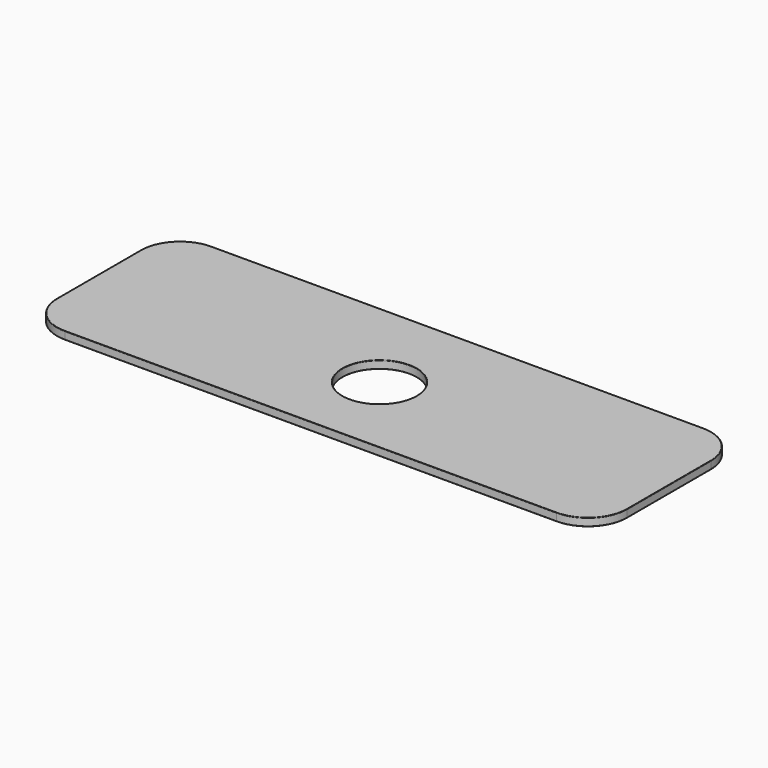
from build123d import *

# Parameters (mm, degrees)
F0_W     = 146
F0_H     = 46.9
F1_DEPTH = 2
F2_R     = 10
F3_R     = 9.5
F4_DEPTH = 25
F5_R     = 0.1


with BuildPart() as f1:
    # F0 (on Top) → F1 (new body)
    with BuildSketch(Plane.XY):
        Rectangle(F0_W, F0_H)
    extrude(amount=F1_DEPTH)

    # F2
    f2_edges = [f1.edges().sort_by_distance(p)[0] for p in [
        (73, -23.45, 1),
        (73, 23.45, 1),
        (-73, -23.45, 1),
        (-73, 23.45, 1),
    ]]
    fillet(f2_edges, radius=F2_R)

    # F3 (on face) → F4 (cut)
    with BuildSketch(Plane.XY.offset(2)):
        with Locations((0, -1.4277177065)):
            Circle(F3_R)
    extrude(amount=-F4_DEPTH, mode=Mode.SUBTRACT)

    # F5
    f5_edges = [f1.edges().sort_by_distance(p)[0] for p in [
        (73, 0, 2),
        (70.071068, -20.521068, 2),
        (70.071068, 20.521068, 2),
        (0, -23.45, 2),
        (0, 23.45, 2),
        (-70.071068, -20.521068, 2),
        (-70.071068, 20.521068, 2),
        (-73, 0, 2),
        (-9.5, -1.427718, 2),
        (73, 0, 0),
        (70.071068, -20.521068, 0),
        (70.071068, 20.521068, 0),
        (0, -23.45, 0),
        (0, 23.45, 0),
        (-70.071068, -20.521068, 0),
        (-70.071068, 20.521068, 0),
        (-73, 0, 0),
        (-9.5, -1.427718, 0),
    ]]
    fillet(f5_edges, radius=F5_R)


solid = f1.part
